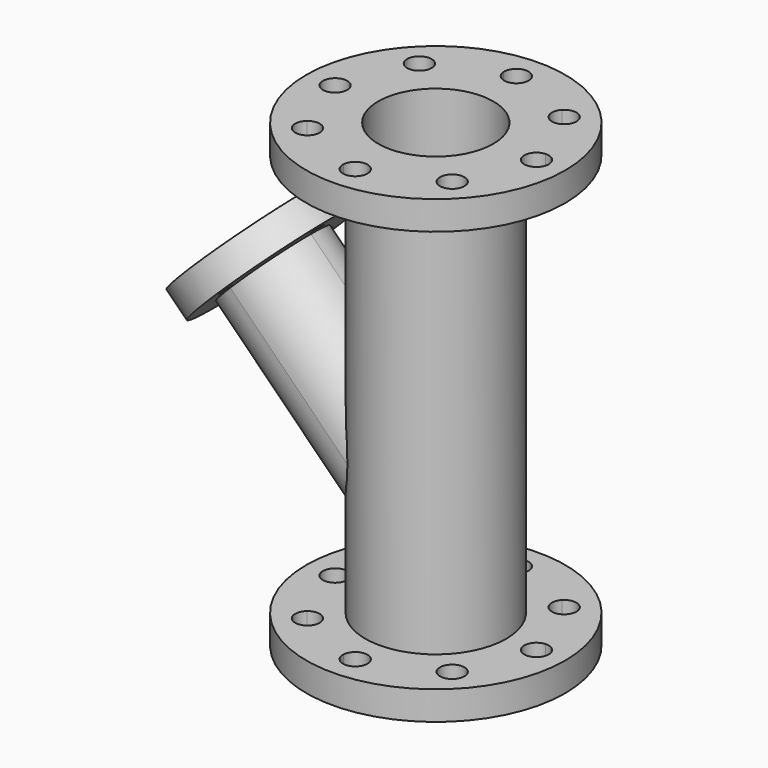
from build123d import *

# Parameters (mm, degrees)
F0_R      = 45
F1_DEPTH  = 10
F2_R      = 24.5
F2_R_2    = 20
F3_DEPTH  = 140
F4_R      = 20
F5_DEPTH  = 150.001
F6_R      = 45
F6_R_2    = 20
F7_DEPTH  = 10
F8_R      = 45
F8_R_2    = 20
F9_DEPTH  = 10
F10_R     = 20
F11_DEPTH = 160.001
F15_DEPTH = 90
F16_R     = 28.2969693824
F17_DEPTH = 10
F18_R     = 14.1011360699
F19_DEPTH = 90
F20_R     = 2.25
F21_DEPTH = 25


with BuildPart() as f1:
    # F0 (on Top) → F1 (new body)
    with BuildSketch(Plane.XY):
        Circle(F0_R)
    extrude(amount=F1_DEPTH)

    # F2 (on face) → F3 (join)
    with BuildSketch(Plane(origin=(0, 0, 0), x_dir=(1, 0, 0), z_dir=(0, 0, -1))):
        Circle(F2_R)
        Circle(F2_R_2, mode=Mode.SUBTRACT)
    extrude(amount=F3_DEPTH)

    # F4 (on face) → F5 (cut, through all)
    with BuildSketch(Plane.XY.offset(10)):
        Circle(F4_R)
    extrude(amount=-F5_DEPTH, mode=Mode.SUBTRACT)

    # F6 (on Top) → F7 (join)
    with BuildSketch(Plane.XY):
        Circle(F6_R)
        Circle(F6_R_2, mode=Mode.SUBTRACT)
    extrude(amount=F7_DEPTH)

    # F8 (on face) → F9 (join)
    with BuildSketch(Plane(origin=(0, 0, -140), x_dir=(1, 0, 0), z_dir=(0, 0, -1))):
        Circle(F8_R)
        Circle(F8_R_2, mode=Mode.SUBTRACT)
    extrude(amount=F9_DEPTH)

    # F10 (on face) → F11 (cut, through all)
    with BuildSketch(Plane.XY.offset(10)):
        Circle(F10_R)
        with BuildLine():
            ThreePointArc((22.0323788799, 27.1951150189), (22.110232414, 21.3705433389), (27.9287856649, 21.0946185385))
            ThreePointArc((27.9287856649, 21.0946185385), (25.1661181948, 24.3241956703), (22.0323788799, 27.1951150189))
        make_face()
        with BuildLine():
            ThreePointArc((22.0323788799, 27.1951150189), (25.1661181948, 24.3241956703), (27.9287856649, 21.0946185385))
            ThreePointArc((27.9287856649, 21.0946185385), (29.0264184906, 22.5463931992), (29.4161181948, 24.3241956703))
            ThreePointArc((29.4161181948, 24.3241956703), (26.706265576, 28.2853124376), (22.0323788799, 27.1951150189))
        make_face()
        with BuildLine():
            ThreePointArc((-4.2421595409, 34.7419642857), (0, 30.75), (4.2421595409, 34.7419642857))
            ThreePointArc((4.2421595409, 34.7419642857), (0, 35), (-4.2421595409, 34.7419642857))
        make_face()
        with BuildLine():
            ThreePointArc((-4.2421595409, 34.7419642857), (0, 35), (4.2421595409, 34.7419642857))
            ThreePointArc((4.2421595409, 34.7419642857), (4.248039433, 34.8709225982), (4.25, 35))
            ThreePointArc((4.25, 35), (-0.1290774018, 39.248039433), (-4.2421595409, 34.7419642857))
        make_face()
        with BuildLine():
            ThreePointArc((-27.9287856649, 21.0946185385), (-25.1661181948, 24.3241956703), (-22.0323788799, 27.1951150189))
            ThreePointArc((-22.0323788799, 27.1951150189), (-28.2220039756, 27.2778480017), (-27.9287856649, 21.0946185385))
        make_face()
        with BuildLine():
            ThreePointArc((-20.9161181948, 24.3241956703), (-21.2050014275, 25.8643430515), (-22.0323788799, 27.1951150189))
            ThreePointArc((-22.0323788799, 27.1951150189), (-25.1661181948, 24.3241956703), (-27.9287856649, 21.0946185385))
            ThreePointArc((-27.9287856649, 21.0946185385), (-23.3883157237, 20.4638953745), (-20.9161181948, 24.3241956703))
        make_face()
        with BuildLine():
            ThreePointArc((-34.7419642857, -4.2421595409), (-35, 0), (-34.7419642857, 4.2421595409))
            ThreePointArc((-34.7419642857, 4.2421595409), (-39.25, 0), (-34.7419642857, -4.2421595409))
        make_face()
        with BuildLine():
            ThreePointArc((-30.75, 0), (-31.904911004, 2.9125459837), (-34.7419642857, 4.2421595409))
            ThreePointArc((-34.7419642857, 4.2421595409), (-35, 0), (-34.7419642857, -4.2421595409))
            ThreePointArc((-34.7419642857, -4.2421595409), (-31.904911004, -2.9125459837), (-30.75, 0))
        make_face()
        with BuildLine():
            ThreePointArc((-27.9287856649, -21.0946185385), (-28.2220039756, -27.2778480017), (-22.0323788799, -27.1951150189))
            ThreePointArc((-22.0323788799, -27.1951150189), (-25.1661181948, -24.3241956703), (-27.9287856649, -21.0946185385))
        make_face()
        with BuildLine():
            ThreePointArc((-27.9287856649, -21.0946185385), (-25.1661181948, -24.3241956703), (-22.0323788799, -27.1951150189))
            ThreePointArc((-22.0323788799, -27.1951150189), (-21.2050014275, -25.8643430515), (-20.9161181948, -24.3241956703))
            ThreePointArc((-20.9161181948, -24.3241956703), (-23.3883157237, -20.4638953745), (-27.9287856649, -21.0946185385))
        make_face()
        with BuildLine():
            ThreePointArc((-4.2421595409, -34.7419642857), (0, -35), (4.2421595409, -34.7419642857))
            ThreePointArc((4.2421595409, -34.7419642857), (0, -30.75), (-4.2421595409, -34.7419642857))
        make_face()
        with BuildLine():
            ThreePointArc((4.25, -35), (4.248039433, -34.8709225982), (4.2421595409, -34.7419642857))
            ThreePointArc((4.2421595409, -34.7419642857), (0, -35), (-4.2421595409, -34.7419642857))
            ThreePointArc((-4.2421595409, -34.7419642857), (-0.1290774018, -39.248039433), (4.25, -35))
        make_face()
        with BuildLine():
            ThreePointArc((22.0323788799, -27.1951150189), (25.1661181948, -24.3241956703), (27.9287856649, -21.0946185385))
            ThreePointArc((27.9287856649, -21.0946185385), (22.110232414, -21.3705433389), (22.0323788799, -27.1951150189))
        make_face()
        with BuildLine():
            ThreePointArc((29.4161181948, -24.3241956703), (29.0264184906, -22.5463931992), (27.9287856649, -21.0946185385))
            ThreePointArc((27.9287856649, -21.0946185385), (25.1661181948, -24.3241956703), (22.0323788799, -27.1951150189))
            ThreePointArc((22.0323788799, -27.1951150189), (26.706265576, -28.2853124376), (29.4161181948, -24.3241956703))
        make_face()
        with BuildLine():
            ThreePointArc((34.7419642857, -4.2421595409), (34.935431513, -2.125), (35, 0))
            ThreePointArc((35, 0), (34.935431513, 2.125), (34.7419642857, 4.2421595409))
            ThreePointArc((34.7419642857, 4.2421595409), (30.75, 0), (34.7419642857, -4.2421595409))
        make_face()
        with BuildLine():
            ThreePointArc((34.7419642857, 4.2421595409), (34.935431513, 2.125), (35, 0))
            ThreePointArc((35, 0), (34.935431513, -2.125), (34.7419642857, -4.2421595409))
            ThreePointArc((34.7419642857, -4.2421595409), (37.9125459837, -3.095088996), (39.25, 0))
            ThreePointArc((39.25, 0), (37.9125459837, 3.095088996), (34.7419642857, 4.2421595409))
        make_face()
    extrude(amount=-F11_DEPTH, mode=Mode.SUBTRACT)


with BuildPart() as f15:
    # F14 (on face) → F15 (new body)
    with BuildSketch(Plane(origin=(-9.6703639142, 0, 9.6703639142), x_dir=(0, -1, 0), z_dir=(-0.7071067812, 0, 0.7071067812))):
        with BuildLine():
            ThreePointArc((18.5965670214, -76.3450469822), (13.1497586476, -63.1952883345), (0, -57.7484799607))
            Line((0, -57.7484799607), (0, -94.9416140036))
            ThreePointArc((0, -94.9416140036), (13.1497586476, -89.4948056298), (18.5965670214, -76.3450469822))
        make_face()
        with BuildLine():
            Line((0, -94.9416140036), (0, -57.7484799607))
            ThreePointArc((0, -57.7484799607), (-18.5965670214, -76.3450469822), (0, -94.9416140036))
        make_face()
    extrude(amount=-F15_DEPTH)

    # F16 (on face) → F17 (join)
    with BuildSketch(Plane(origin=(-9.6703639142, 0, 9.6703639142), x_dir=(0, -1, 0), z_dir=(-0.7071067812, 0, 0.7071067812))):
        with Locations((0, -76.0014876723)):
            Circle(F16_R)
    extrude(amount=-F17_DEPTH)

    # F18 (on face) → F19 (cut)
    with BuildSketch(Plane(origin=(-9.6703639142, 0, 9.6703639142), x_dir=(0, -1, 0), z_dir=(-0.7071067812, 0, 0.7071067812))):
        with Locations((0, -76.213799417)):
            Circle(F18_R)
    extrude(amount=-F19_DEPTH, mode=Mode.SUBTRACT)

    # F20 (on face) → F21 (cut)
    with BuildSketch(Plane(origin=(-9.6703639142, 0, 9.6703639142), x_dir=(0, -1, 0), z_dir=(-0.7071067812, 0, 0.7071067812))):
        with Locations((21.4713849127, -75.1915425062)):
            Circle(F20_R)
        with Locations((0, -54.5940324664)):
            Circle(F20_R)
        with Locations((0, -97.4324643612)):
            Circle(F20_R)
        with Locations((-21.4478094131, -74.5341703296)):
            Circle(F20_R)
    extrude(amount=-F21_DEPTH, mode=Mode.SUBTRACT)


solid = Compound([f1.part, f15.part])
